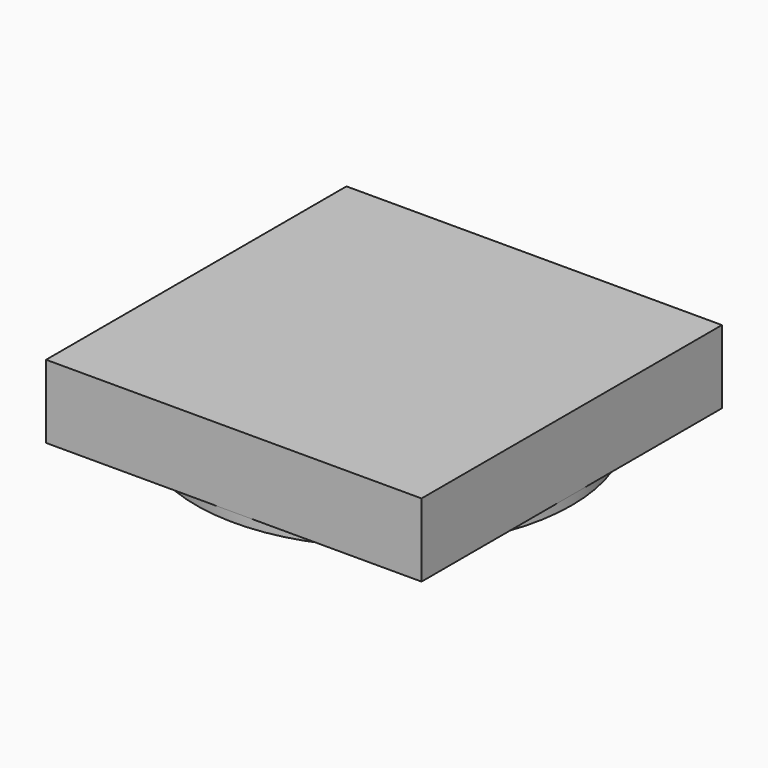
from build123d import *

# Parameters (mm, degrees)
F0_R     = 10.25
F0_R_2   = 8.25
F1_DEPTH = 0.5
F2_W     = 20.5
F2_H     = 20.5
F3_DEPTH = 4


with BuildPart() as f1:
    # F0 (on Top) → F1 (new body)
    with BuildSketch(Plane.XY):
        Circle(F0_R)
        Circle(F0_R_2, mode=Mode.SUBTRACT)
    extrude(amount=F1_DEPTH)

    # F2 (on face) → F3 (join)
    with BuildSketch(Plane.XY.offset(0.5)):
        Rectangle(F2_W, F2_H)
    extrude(amount=F3_DEPTH)


solid = f1.part
